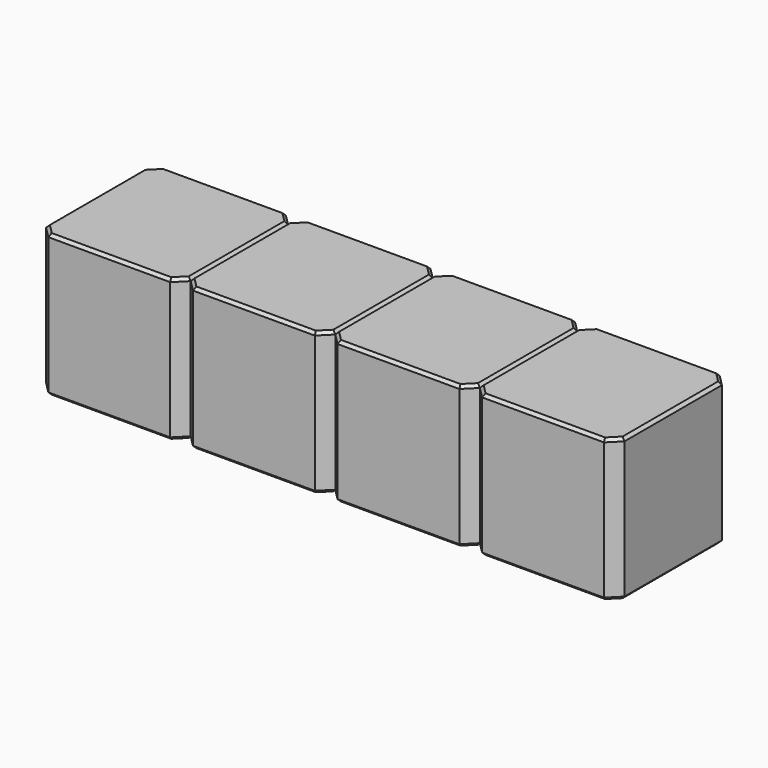
from build123d import *

# Parameters (mm, degrees)
SKETCH216_W      = 2.54
SKETCH216_H      = 2.54
PAD071_DEPTH     = 2.5
CHAMFER025_SIZE  = 0.2
CHAMFER027_SIZE  = 0.05
ARRAY009_X_COUNT = 4
ARRAY009_X_PITCH = 2.54


with BuildPart() as array009:
    # Sketch216 → Pad071 (new body)
    with BuildSketch(Plane.XY):
        Rectangle(SKETCH216_W, SKETCH216_H)
    extrude(amount=PAD071_DEPTH)

    # Chamfer025
    chamfer025_edges = [array009.edges().sort_by_distance(p)[0] for p in [
        (1.27, -1.27, 1.25),
        (-1.27, -1.27, 1.25),
        (1.27, 1.27, 1.25),
        (-1.27, 1.27, 1.25),
    ]]
    chamfer(chamfer025_edges, length=CHAMFER025_SIZE)

    # Chamfer027
    chamfer027_edges = [array009.edges().sort_by_distance(p)[0] for p in [
        (0, -1.27, 2.5),
        (-1.17, -1.17, 2.5),
        (1.17, -1.17, 2.5),
        (-1.27, 0, 2.5),
        (1.27, 0, 2.5),
        (-1.17, 1.17, 2.5),
        (1.17, 1.17, 2.5),
        (0, 1.27, 2.5),
        (0, -1.27, 0),
        (-1.17, -1.17, 0),
        (1.17, -1.17, 0),
        (-1.27, 0, 0),
        (1.27, 0, 0),
        (-1.17, 1.17, 0),
        (1.17, 1.17, 0),
        (0, 1.27, 0),
    ]]
    chamfer(chamfer027_edges, length=CHAMFER027_SIZE)


with BuildPart() as array009_copy1:
    # Array009 X: instance of Array009
    add(array009.part.moved(Location(Vector(1, 0, 0) * (1 * ARRAY009_X_PITCH))))


with BuildPart() as array009_copy2:
    # Array009 X: instance of Array009
    add(array009.part.moved(Location(Vector(1, 0, 0) * (2 * ARRAY009_X_PITCH))))


with BuildPart() as array009_copy3:
    # Array009 X: instance of Array009
    add(array009.part.moved(Location(Vector(1, 0, 0) * (3 * ARRAY009_X_PITCH))))


solid = Compound([array009.part, array009_copy1.part, array009_copy2.part, array009_copy3.part])
